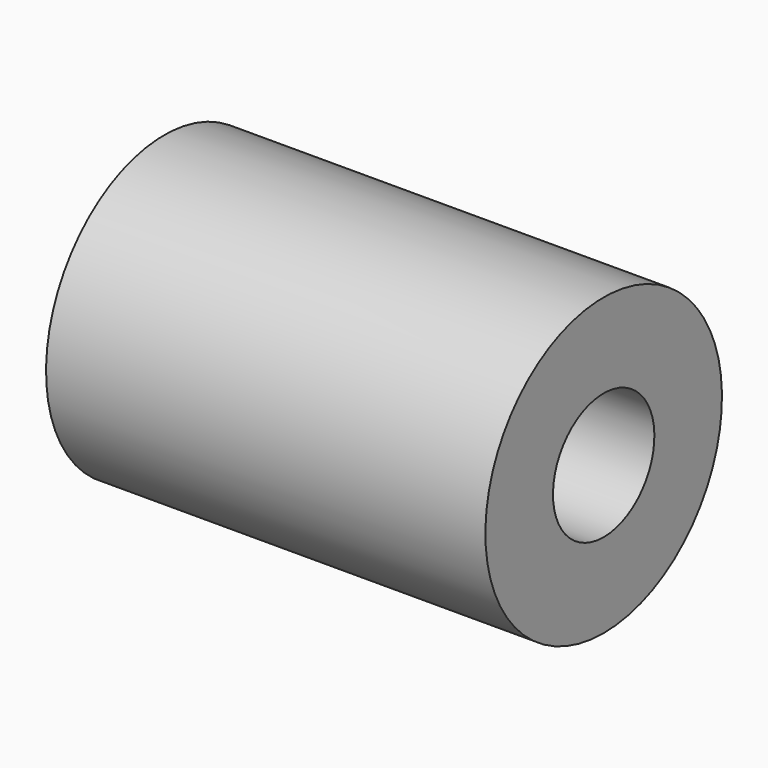
from build123d import *

# Parameters (mm, degrees)
CYLINDER176_R     = 1.5
CYLINDER176_DEPTH = 55
CYLINDER171_R     = 3.5
CYLINDER171_DEPTH = 10.4


with BuildPart() as cylinder176:
    # Cylinder176 → Cylinder176 (new body)
    with BuildSketch(Plane(origin=(92.7, 68.9, 48.1), x_dir=(0, 0, -1), z_dir=(1, 0, 0))):
        Circle(CYLINDER176_R)
    extrude(amount=CYLINDER176_DEPTH)


with BuildPart() as cut209:
    # Cylinder171 → Cylinder171 (new body)
    with BuildSketch(Plane(origin=(124.4, 68.9, 48.1), x_dir=(0, 0, -1), z_dir=(1, 0, 0))):
        Circle(CYLINDER171_R)
    extrude(amount=CYLINDER171_DEPTH)

    # Cut209: cut Cylinder176
    add(cylinder176.part, mode=Mode.SUBTRACT)


solid = cut209.part
